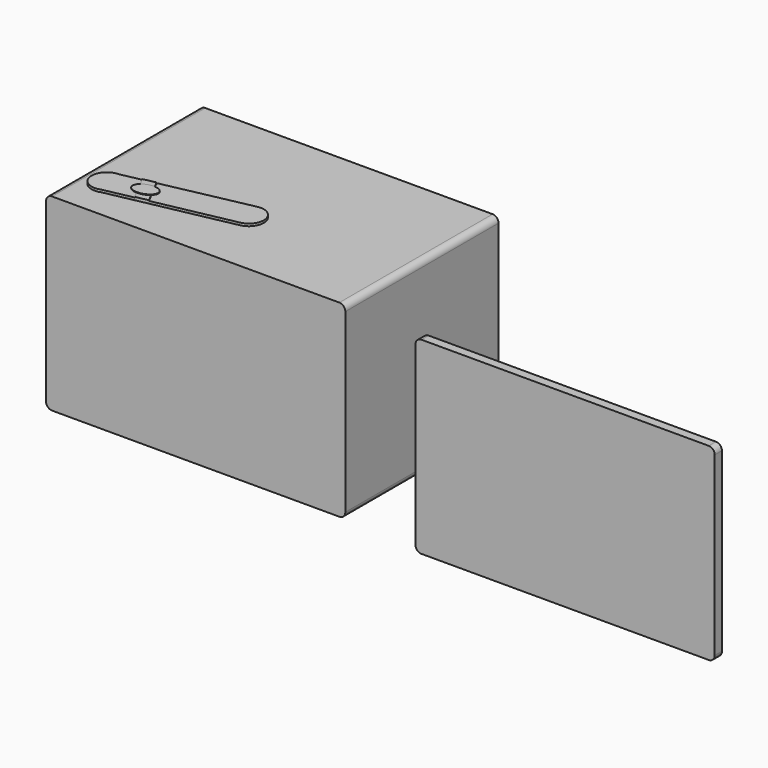
from build123d import *

# Parameters (mm, degrees)
F0_W      = 100
F0_H      = 64
F1_DEPTH  = 63
F3_START  = -1.75
F3_DEPTH  = 96.5
F5_START  = -1
F4_W      = 7.5
F4_H      = 30.7
F5_DEPTH  = 63
F7_DEPTH  = 42
F6_W      = 8.6
F6_H      = 3
F8_DEPTH  = 25
F9_W      = 100
F9_H      = 63
F10_DEPTH = 3
F11_R     = 3.165
F12_DEPTH = 1.61
F13_R     = 3.165
F14_DEPTH = 1.67
F15_R     = 2
F15_2_R   = 2
F17_DEPTH = 0.8
F18_DEPTH = 1
F20_DEPTH = 0.2


with BuildPart() as f1:
    # F0 (on Top) → F1 (new body)
    with BuildSketch(Plane.XY):
        with Locations((-50, 32)):
            Rectangle(F0_W, F0_H)
    extrude(amount=F1_DEPTH)

    # F2 (on face) → F3 (cut)
    with BuildSketch(Plane.YZ.offset(F3_START)):
        with BuildLine():
            ThreePointArc((15.85, 2), (25.99698231, 6.20301769), (30.2, 16.35))
            ThreePointArc((30.2, 16.35), (25.99698231, 26.49698231), (15.85, 30.7))
            ThreePointArc((15.85, 30.7), (1.5, 16.35), (15.85, 2))
        make_face()
        with BuildLine():
            ThreePointArc((15.85, 30.7), (25.99698231, 26.49698231), (30.2, 16.35))
            ThreePointArc((30.2, 16.35), (25.99698231, 6.20301769), (15.85, 2))
            Line((15.85, 2), (47.85, 2))
            ThreePointArc((47.85, 2), (33.5, 16.35), (47.85, 30.7))
            Line((47.85, 30.7), (15.85, 30.7))
        make_face()
        with BuildLine():
            Line((64, 30.7), (47.85, 30.7))
            ThreePointArc((47.85, 30.7), (57.99698231, 26.49698231), (62.2, 16.35))
            ThreePointArc((62.2, 16.35), (57.99698231, 6.20301769), (47.85, 2))
            Line((47.85, 2), (64, 2))
            Line((64, 2), (64, 30.7))
        make_face()
        with BuildLine():
            ThreePointArc((62.2, 16.35), (57.99698231, 26.49698231), (47.85, 30.7))
            ThreePointArc((47.85, 30.7), (33.5, 16.35), (47.85, 2))
            ThreePointArc((47.85, 2), (57.99698231, 6.20301769), (62.2, 16.35))
        make_face()
    extrude(amount=-F3_DEPTH, mode=Mode.SUBTRACT)

    # F4 (on face) → F5 (cut)
    with BuildSketch(Plane.XZ.offset(F5_START)):
        with Locations((-35, 16.35)):
            Rectangle(F4_W, F4_H)
    extrude(amount=-F5_DEPTH, mode=Mode.SUBTRACT)

    # F6 (on face) → F7 (cut)
    with BuildSketch(Plane(origin=(0, 64, 0), x_dir=(-1, 0, 0), z_dir=(0, 1, 0))):
        Polygon((87.0742898487, 55.9157994471), (14.0742898487, 55.9157994471), (14.0742898487, 43.9157994471), (29.7742898487, 43.9157994471), (38.3742898487, 43.9157994471), (87.0742898487, 43.9157994471), align=None)
    extrude(amount=-F7_DEPTH, mode=Mode.SUBTRACT)

    # F6 (on face) → F8 (cut)
    with BuildSketch(Plane(origin=(0, 64, 0), x_dir=(-1, 0, 0), z_dir=(0, 1, 0))):
        with Locations((34.0742898487, 42.4157994471)):
            Rectangle(F6_W, F6_H)
    extrude(amount=-F8_DEPTH, mode=Mode.SUBTRACT)

    # F11 (on face) → F12 (cut)
    with BuildSketch(Plane(origin=(0, 64, 0), x_dir=(-1, 0, 0), z_dir=(0, 1, 0))):
        with Locations((95.835, 58.835)):
            Circle(F11_R)
        with Locations((95.835, 34.865)):
            Circle(F11_R)
        with Locations((4.165, 58.835)):
            Circle(F11_R)
        with Locations((4.165, 34.865)):
            Circle(F11_R)
    extrude(amount=-F12_DEPTH, mode=Mode.SUBTRACT)

    # F15
    f15_edges = [f1.edges().sort_by_distance(p)[0] for p in [
        (0, 32, 63),
        (0, 32, 0),
        (-100, 32, 0),
        (-100, 32, 63),
    ]]
    fillet(f15_edges, radius=F15_R)

    # F16 (on face) → F17 (join)
    with BuildSketch(Plane.XY.offset(63)):
        with BuildLine():
            ThreePointArc((-91.3430968703, 9.4717235174), (-90.3538525637, 9.5705608286), (-89.403717956, 9.8631652367))
            Line((-89.403717956, 9.8631652367), (-91.3430968703, 9.4717235174))
        make_face()
        with BuildLine():
            ThreePointArc((-45.5024390477, 22.8157792819), (-47.3453227673, 26.6929711513), (-51.5154857645, 27.7120775112))
            ThreePointArc((-51.5154857645, 27.7120775112), (-55.4011839634, 21.8146308158), (-49.5131947411, 17.9146165932))
            ThreePointArc((-49.5131947411, 17.9146165932), (-46.6329286438, 19.6492529149), (-45.5024390477, 22.8157792819))
        make_face()
        with BuildLine():
            ThreePointArc((-89.403717956, 9.8631652367), (-87.1779501399, 11.705579502), (-86.3430968703, 14.4717235174))
            ThreePointArc((-86.3430968703, 14.4717235174), (-87.8075629644, 18.0072574234), (-91.3430968703, 19.4717235174))
            ThreePointArc((-91.3430968703, 19.4717235174), (-96.3430968703, 14.4717235174), (-91.3430968703, 9.4717235174))
            Line((-91.3430968703, 9.4717235174), (-89.403717956, 9.8631652367))
        make_face()
        with BuildLine():
            ThreePointArc((-91.3430968703, 19.4717235174), (-87.8075629644, 18.0072574234), (-86.3430968703, 14.4717235174))
            ThreePointArc((-86.3430968703, 14.4717235174), (-87.1779501399, 11.705579502), (-89.403717956, 9.8631652367))
            Line((-89.403717956, 9.8631652367), (-79.8028434912, 11.8009932596))
            Line((-79.8028434912, 11.8009932596), (-81.8437926947, 15.720318451))
            Line((-81.8437926947, 15.720318451), (-84.5312201365, 20.8811044491))
            Line((-84.5312201365, 20.8811044491), (-91.3430968703, 19.4717235174))
        make_face()
        with BuildLine():
            Line((-51.5154857645, 27.7120775112), (-80.4593477879, 21.7235770112))
            Line((-80.4593477879, 21.7235770112), (-78.2704292539, 17.520099758))
            Line((-78.2704292539, 17.520099758), (-75.7212589077, 12.6248149867))
            Line((-75.7212589077, 12.6248149867), (-49.5131947411, 17.9146165932))
            ThreePointArc((-49.5131947411, 17.9146165932), (-55.4011839634, 21.8146308158), (-51.5154857645, 27.7120775112))
        make_face()
    extrude(amount=F17_DEPTH)

    # F16 (on face) → F18 (join)
    with BuildSketch(Plane.XY.offset(63)):
        with BuildLine():
            Line((-80.4593477879, 21.7235770112), (-84.5312201365, 20.8811044491))
            Line((-84.5312201365, 20.8811044491), (-81.8437926947, 15.720318451))
            add(Edge.make_bspline(
                [(-78.2704292539, 17.520099758), (-79.4249144457, 19.7371087933), (-81.2115961486, 18.8372181486), (-82.9982778516, 17.9373275039), (-81.8437926947, 15.720318451)],
                knots=[1.5407196056, 1.5407196056, 1.5407196056, 3.1115159226, 3.1115159226, 4.6823122396, 4.6823122396, 4.6823122396], degree=2, weights=[1, 0.7071067846, 1, 0.7071067846, 1]))
            Line((-78.2704292539, 17.520099758), (-80.4593477879, 21.7235770112))
        make_face()
        with BuildLine():
            Line((-81.8437926947, 15.720318451), (-79.8028434912, 11.8009932596))
            Line((-79.8028434912, 11.8009932596), (-75.7212589077, 12.6248149867))
            Line((-75.7212589077, 12.6248149867), (-78.2704292539, 17.520099758))
            add(Edge.make_bspline(
                [(-78.8494184734, 14.431264394), (-77.1501552786, 15.3687880367), (-78.2704292539, 17.520099758)],
                knots=[0, 0, 0, 1.5407196056, 1.5407196056, 1.5407196056], degree=2, weights=[1, 0.7176601517, 1]))
            add(Edge.make_bspline(
                [(-81.8437926947, 15.720318451), (-80.6540515248, 13.4356057124), (-78.8494184734, 14.431264394)],
                knots=[4.6823122396, 4.6823122396, 4.6823122396, 6.2831853072, 6.2831853072, 6.2831853072], degree=2, weights=[1, 0.6963934928, 1]))
        make_face()
        with BuildLine():
            add(Edge.make_bspline(
                [(-78.2704292539, 17.520099758), (-79.4249144457, 19.7371087933), (-81.2115961486, 18.8372181486), (-82.9982778516, 17.9373275039), (-81.8437926947, 15.720318451)],
                knots=[1.5407196056, 1.5407196056, 1.5407196056, 3.1115159226, 3.1115159226, 4.6823122396, 4.6823122396, 4.6823122396], degree=2, weights=[1, 0.7071067846, 1, 0.7071067846, 1]))
            add(Edge.make_bspline(
                [(-81.8437926947, 15.720318451), (-80.6540515248, 13.4356057124), (-78.8494184734, 14.431264394)],
                knots=[4.6823122396, 4.6823122396, 4.6823122396, 6.2831853072, 6.2831853072, 6.2831853072], degree=2, weights=[1, 0.6963934928, 1]))
            add(Edge.make_bspline(
                [(-78.8494184734, 14.431264394), (-77.1501552786, 15.3687880367), (-78.2704292539, 17.520099758)],
                knots=[0, 0, 0, 1.5407196056, 1.5407196056, 1.5407196056], degree=2, weights=[1, 0.7176601517, 1]))
        make_face()
    extrude(amount=F18_DEPTH)

    # F19 (on face) → F20 (join)
    with BuildSketch(Plane.XY.offset(64)):
        with BuildLine():
            add(Edge.make_bspline(
                [(-76.1928409338, 17.405230552), (-77.0794322976, 21.8381852527), (-82.4835310821, 18.4522284502), (-87.8876298666, 15.0662716478), (-81.5969397183, 14.0192737495), (-75.30624957, 12.9722758513), (-76.1928409338, 17.405230552)],
                knots=[0, 0, 0, 2.0943951024, 2.0943951024, 4.1887902048, 4.1887902048, 6.2831853072, 6.2831853072, 6.2831853072], degree=2, weights=[1, 0.5, 1, 0.5, 1, 0.5, 1]))
        make_face()
    extrude(amount=F20_DEPTH)


with BuildPart() as f10:
    # F9 (on Front) → F10 (new body)
    with BuildSketch(Plane.XZ):
        with Locations((75.833710218, 31.5)):
            Rectangle(F9_W, F9_H)
    extrude(amount=F10_DEPTH)

    # F13 (on face) → F14 (cut)
    with BuildSketch(Plane(origin=(0, 0, 0), x_dir=(-1, 0, 0), z_dir=(0, 1, 0))):
        with Locations((-29.998710218, 34.865)):
            Circle(F13_R)
        with Locations((-29.998710218, 58.835)):
            Circle(F13_R)
        with Locations((-121.668710218, 58.835)):
            Circle(F13_R)
        with Locations((-121.668710218, 34.865)):
            Circle(F13_R)
    extrude(amount=-F14_DEPTH, mode=Mode.SUBTRACT)

    # F15#2
    f15_2_edges = [f10.edges().sort_by_distance(p)[0] for p in [
        (125.83371, -1.5, 63),
        (125.83371, -1.5, 0),
        (25.83371, -1.5, 0),
        (25.83371, -1.5, 63),
    ]]
    fillet(f15_2_edges, radius=F15_2_R)


solid = Compound([f1.part, f10.part])
